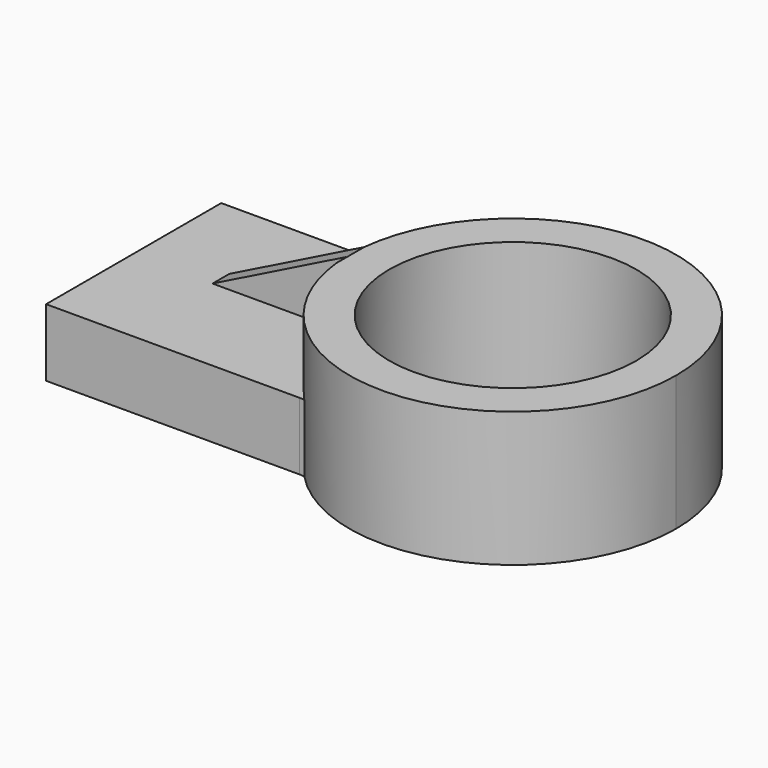
from build123d import *

# Parameters (mm, degrees)
F0_R     = 23.255918
F1_DEPTH = 25.4
F2_DEPTH = 12.7
F4_DEPTH = 12.7
F6_DEPTH = 25.4


with BuildPart() as f1:
    # F0 (on Top) → F1 (new body)
    with BuildSketch(Plane.XY):
        with BuildLine():
            ThreePointArc((30.753419, 0), (10.737173, 28.818152), (-23.255918, 20.122997))
            ThreePointArc((-23.255918, 20.122997), (-30.745882, -0.680806), (-22.342394, -21.13268))
            ThreePointArc((-22.342394, -21.13268), (11.372505, -28.573395), (30.753419, 0))
        make_face()
        Circle(F0_R, mode=Mode.SUBTRACT)
    extrude(amount=F1_DEPTH)

    # F0 (on Top) → F2 (join)
    with BuildSketch(Plane.XY):
        with BuildLine():
            Line((-23.255918, 20.122997), (-70.972726, 20.122997))
            Line((-70.972726, 20.122997), (-70.972726, -21.086972))
            Line((-70.972726, -21.086972), (-23.255918, -21.086972))
            Line((-23.255918, -21.086972), (-22.342394, -21.13268))
            ThreePointArc((-22.342394, -21.13268), (-30.745882, -0.680806), (-23.255918, 20.122997))
        make_face()
    extrude(amount=F2_DEPTH)

    # F3 (on face) → F4 (join)
    with BuildSketch(Plane.XY.offset(12.7)):
        with BuildLine():
            ThreePointArc((-30.745882, -0.680806), (-30.726394, 1.288977), (-30.580838, 3.253472))
            Line((-30.580838, 3.253472), (-55.966172, 3.253472))
            Line((-55.966172, 3.253472), (-55.966172, -0.680806))
            Line((-55.966172, -0.680806), (-30.745882, -0.680806))
        make_face()
    extrude(amount=F4_DEPTH)

    # F5 (on face) → F6 (cut)
    with BuildSketch(Plane(origin=(0, 3.253472, 0), x_dir=(-1, 0, 0), z_dir=(0, 1, 0))):
        Polygon((55.966172, 25.4), (30.580838, 25.4), (55.966172, 12.7), align=None)
    extrude(amount=-F6_DEPTH, mode=Mode.SUBTRACT)


solid = f1.part
